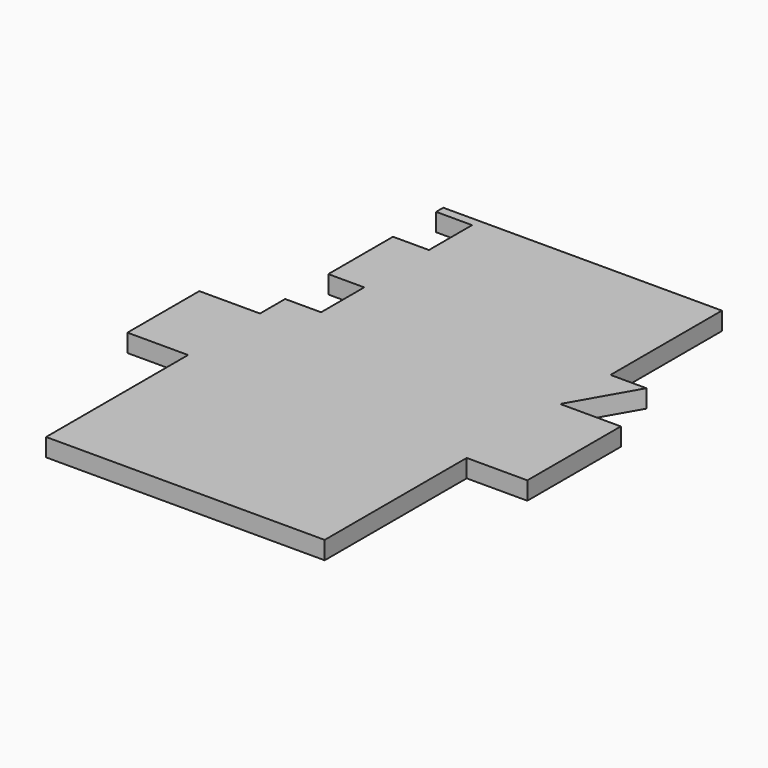
from build123d import *

# Parameters (mm, degrees)
F1_DEPTH = 25.4


with BuildPart() as f1:
    # F0 (on Top) → F1 (new body)
    with BuildSketch(Plane.XY):
        Polygon((0, 250.825), (0, 0), (393.7, 0), (393.7, 250.825), (479.425, 250.825), (479.425, 415.925), (393.7, 415.925), (393.7, 504.825), (393.7, 701.675), (0, 701.675), (0, 688.975), (50.8, 688.975), (50.8, 612.775), (0, 612.775), (0, 498.475), (50.8, 498.475), (50.8, 422.275), (0, 422.275), (0, 377.825), (-85.725, 377.825), (-85.725, 250.825), align=None)
        Polygon((393.7, 504.825), (393.7, 415.925), (444.5, 504.825), align=None)
    extrude(amount=F1_DEPTH)


solid = f1.part
